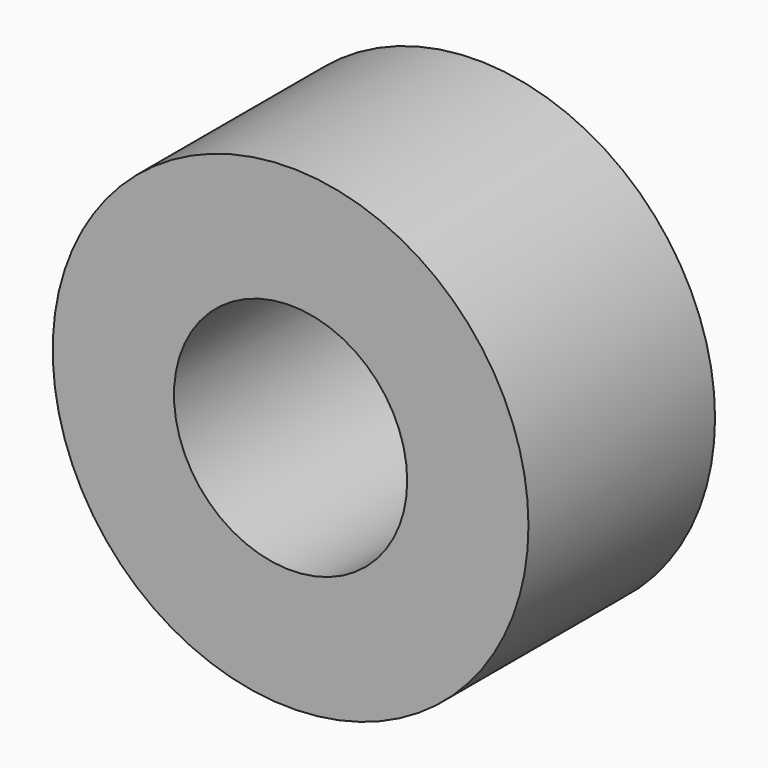
from build123d import *

# Parameters (mm, degrees)
F1_R     = 25.5
F1_R_2   = 12.5
F2_DEPTH = 25


with BuildPart() as f2:
    # F1 (on face) → F2 (new body)
    with BuildSketch(Plane.XZ):
        Circle(F1_R)
        Circle(F1_R_2, mode=Mode.SUBTRACT)
    extrude(amount=F2_DEPTH)


solid = f2.part
